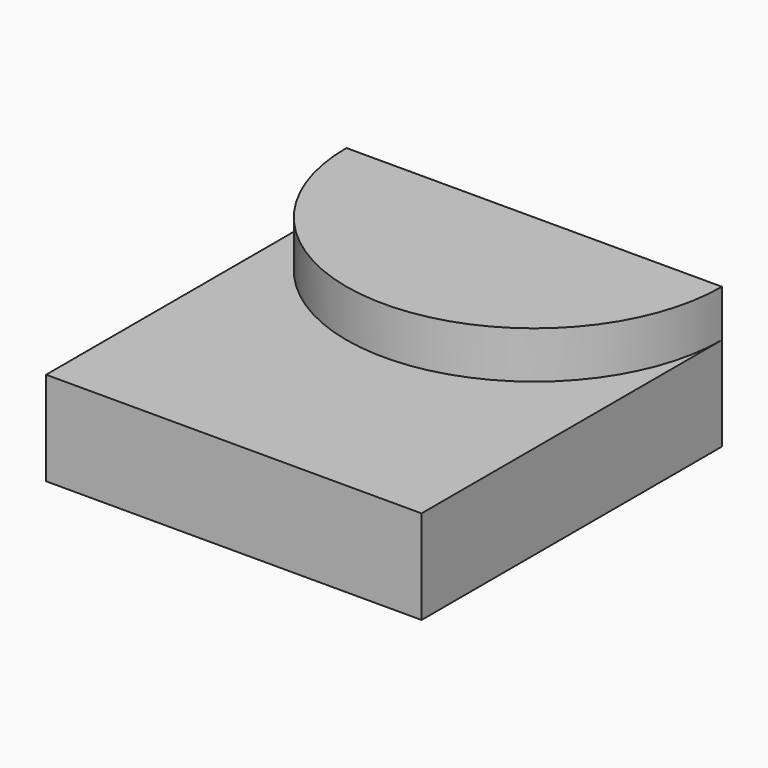
from build123d import *

# Parameters (mm, degrees)
F0_W     = 50.8
F0_H     = 50.8
F1_DEPTH = 12.7
F3_DEPTH = 6.35


with BuildPart() as f1:
    # F0 (on Top) → F1 (new body)
    with BuildSketch(Plane.XY):
        with Locations((-25.4, 25.4)):
            Rectangle(F0_W, F0_H)
    extrude(amount=-F1_DEPTH)

    # F2 (on face) → F3 (join)
    with BuildSketch(Plane.XY):
        with BuildLine():
            Line((0, 50.8), (-50.8, 50.8))
            ThreePointArc((-50.8, 50.8), (-25.4, 25.4), (0, 50.8))
        make_face()
    extrude(amount=F3_DEPTH)


solid = f1.part
